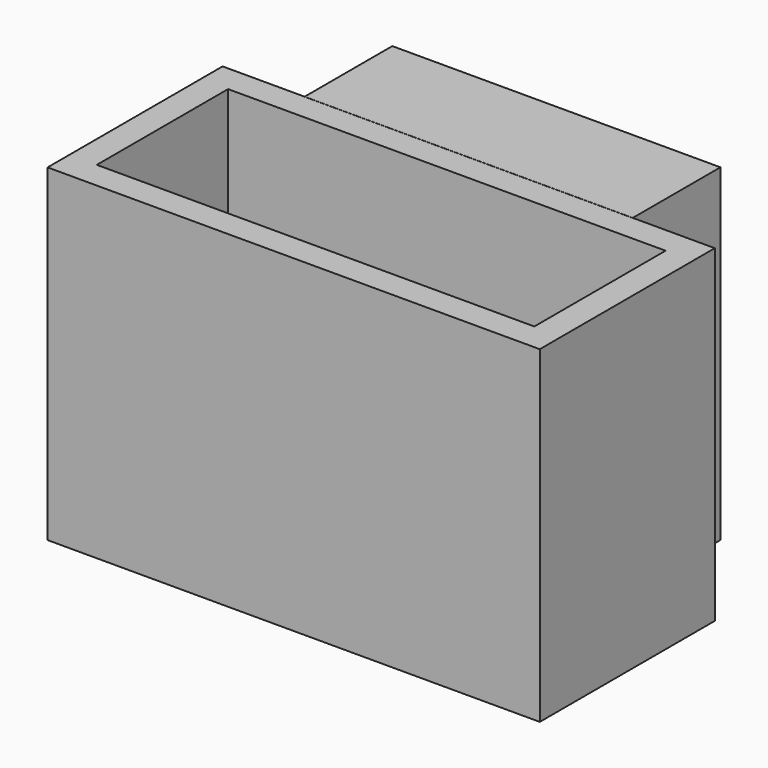
from build123d import *

# Parameters (mm, degrees)
F0_W     = 50.8
F0_H     = 19.05
F1_DEPTH = 38.1
F2_DEPTH = 3.175


with BuildPart() as f1:
    # F0 (on Top) → F1 (new body)
    with BuildSketch(Plane.XY):
        Polygon((28.575, -12.7), (28.575, 12.7), (19.05, 12.7), (19.05, 12.678101), (-19.05, 12.678101), (-19.05, 12.7), (-28.575, 12.7), (-28.575, -12.7), align=None)
        Rectangle(F0_W, F0_H, mode=Mode.SUBTRACT)
        Polygon((0, 12.7), (19.05, 12.7), (19.05, 25.421899), (-19.05, 25.421899), (-19.05, 12.7), align=None)
    extrude(amount=F1_DEPTH)


with BuildPart() as f2:
    # F0 (on Top) → F2 (new body)
    with BuildSketch(Plane.XY):
        Rectangle(F0_W, F0_H)
    extrude(amount=F2_DEPTH)


solid = Compound([f1.part, f2.part])
